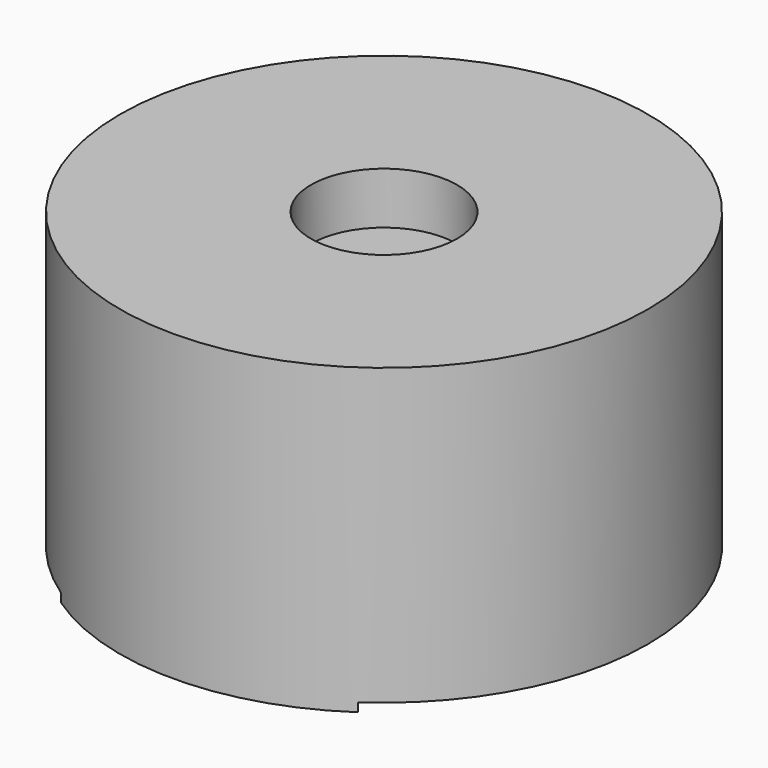
from build123d import *

# Parameters (mm, degrees)
BOX007_W                  = 50
BOX007_H                  = 25
BOX007_DEPTH              = 0.5
CYLINDER007_R             = 4.15
CYLINDER007_DEPTH         = 10
SKETCH006_R               = 15
EXTRUDE003003_DEPTH       = 17.25
CUT005013_PLACEMENT_ANGLE = 90


with BuildPart() as cube007:
    # Box007 → Box007 (new body)
    with BuildSketch(Plane(origin=(66, -23, 0), x_dir=(1, 0, 0), z_dir=(0, 0, 1))):
        with Locations((25, 12.5)):
            Rectangle(BOX007_W, BOX007_H)
    extrude(amount=BOX007_DEPTH)


with BuildPart() as obj1:
    # Cylinder007 → Cylinder007 (new body)
    with BuildSketch(Plane(origin=(89, -14.3, 10.4), x_dir=(1, 0, 0), z_dir=(0, -1, 0))):
        Circle(CYLINDER007_R)
    extrude(amount=CYLINDER007_DEPTH)


with BuildPart() as obj2:
    # Sketch006 → Extrude003003 (new body)
    with BuildSketch(Plane.XZ):
        with Locations((89, 10.4)):
            Circle(SKETCH006_R)
    extrude(amount=EXTRUDE003003_DEPTH)

    # Cut005013: cut obj1
    add(obj1.part, mode=Mode.SUBTRACT)


with BuildPart() as obj2_1:
    # Cut005013 placement: moved
    add(obj2.part.moved(Location((0, -21, 0))).rotate(Axis((0, -21, 0), (-1, 0, 0)), CUT005013_PLACEMENT_ANGLE))

    # Cut005014: cut Cube007
    add(cube007.part, mode=Mode.SUBTRACT)


solid = obj2_1.part
